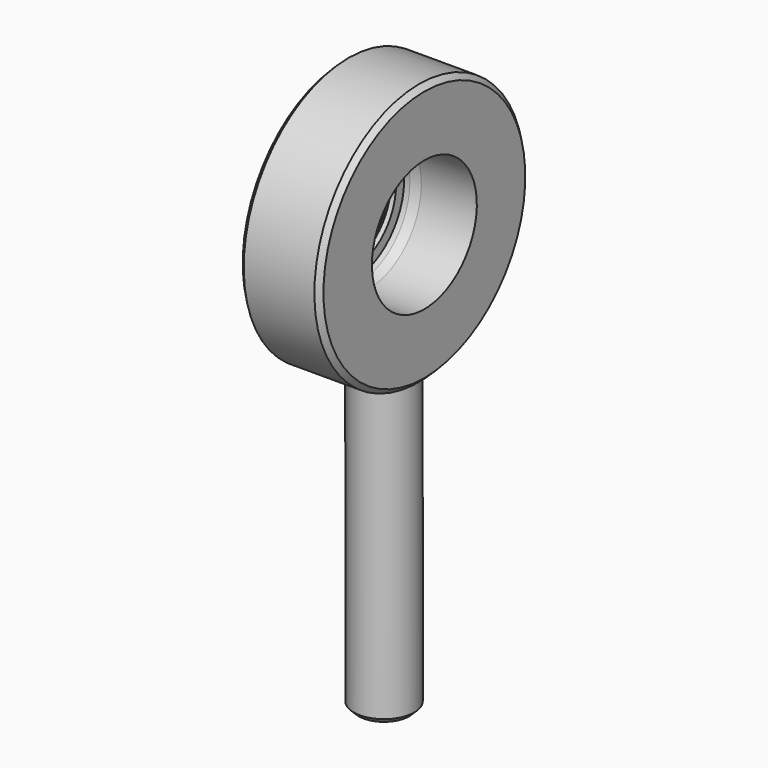
from build123d import *


with BuildPart() as f2:
    # F1 (on face) → F2 (revolve)
    with BuildSketch(Plane.XZ):
        Polygon((-39.86058, 45.765201), (-39.86058, 32.265201), (-38.86058, 31.265201), (-37.86058, 31.265201), (-37.86058, 33.265201), (-36.726605, 33.265201), (-34.86058, 33.765201), (-26.86058, 33.765201), (-23.86058, 33.765201), (-23.86058, 45.765201), (-24.86058, 46.765201), (-38.86058, 46.765201), align=None)
    revolve(axis=Axis((-31.514074, 0, 20.765201), (1, 0, 0)))

    # F0 (on Front) → F4 (revolve)
    with BuildSketch(Plane.XZ):
        Polygon((-31.86058, -63.234799), (-37.86058, -63.234799), (-36.86058, -64.234799), (-31.86058, -64.234799), align=None)
        Polygon((-34.36058, -4.234799), (-37.86058, -4.234799), (-37.86058, -63.234799), (-31.86058, -63.234799), (-31.86058, -4.234799), align=None)
    revolve(axis=Axis((-31.86058, 0, -32.765535), (0, 0, -1)))


solid = f2.part
